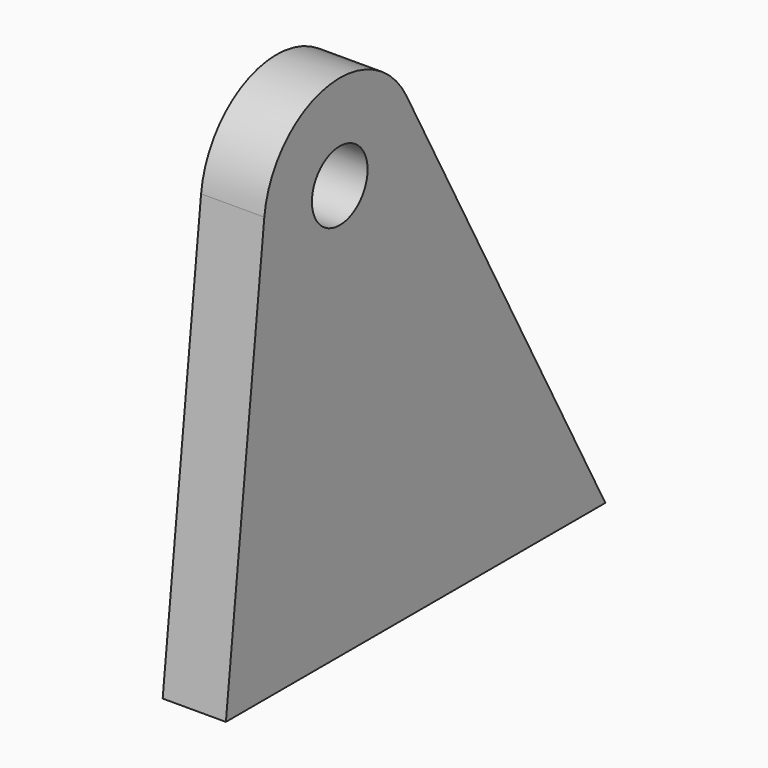
from build123d import *

# Parameters (mm, degrees)
F0_R     = 1.1
F1_DEPTH = 2
F3_DEPTH = 1.2
F4_R     = 1


with BuildPart() as f1:
    # F0 (on Right) → F1 (new body)
    with BuildSketch(Plane.YZ):
        with BuildLine():
            Line((-4.5, 0), (10.5, 0))
            Line((10.5, 0), (2.638459, 14.527772))
            ThreePointArc((2.638459, 14.527772), (-0.571654, 16.045032), (-2.981013, 13.436989))
            Line((-2.981013, 13.436989), (-4.5, 0))
        make_face()
        with Locations((0, 13.1)):
            Circle(F0_R, mode=Mode.SUBTRACT)
    extrude(amount=F1_DEPTH)

    # F2 (on face) → F3 (cut)
    with BuildSketch(Plane(origin=(0, 0, 0), x_dir=(0, -1, 0), z_dir=(-1, 0, 0))):
        Polygon((-3.112502, 10.5), (-7.982751, 1.5), (2.820878, 1.5), (1.803471, 10.5), align=None)
    extrude(amount=-F3_DEPTH, mode=Mode.SUBTRACT)

    # F4
    f4_edges = [f1.edges().sort_by_distance(p)[0] for p in [
        (0.6, 3.112502, 10.5),
        (0.6, -1.803471, 10.5),
        (0.6, -2.820878, 1.5),
        (0.6, 7.982751, 1.5),
        (1.2, 5.547626, 6),
        (1.2, 2.580936, 1.5),
        (1.2, -2.312175, 6),
        (1.2, 0.654515, 10.5),
    ]]
    fillet(f4_edges, radius=F4_R)


solid = f1.part
